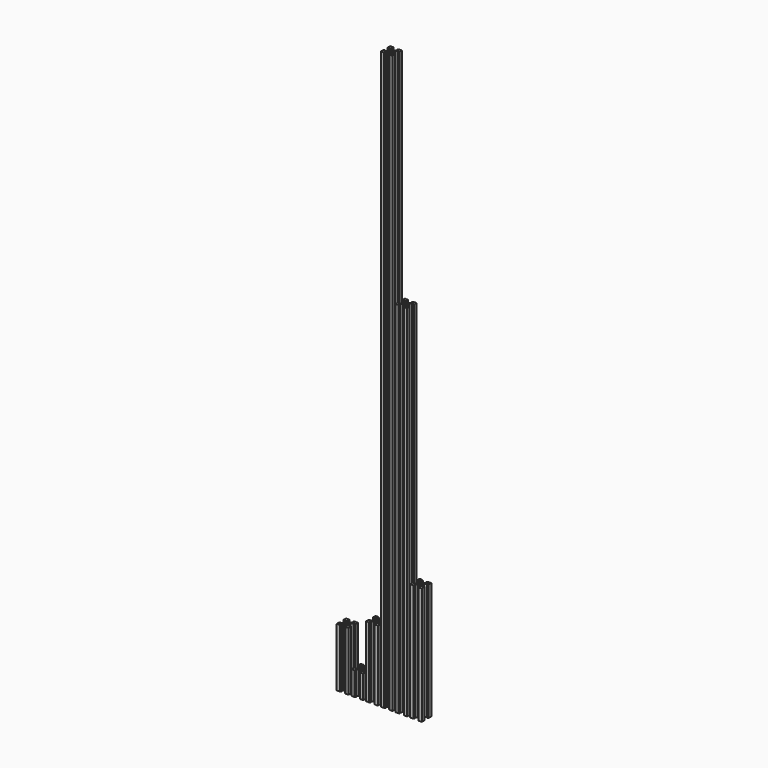
from build123d import *

# Parameters (mm, degrees)
F0_R     = 2.1
F1_DEPTH = 982.5
F2_DEPTH = 612
F3_DEPTH = 200
F4_DEPTH = 120
F5_DEPTH = 40
F6_DEPTH = 100


with BuildPart() as f1:
    # F0 (on Top) → F1 (new body)
    with BuildSketch(Plane.XY):
        Polygon((-10, 10), (-10, 4.64), (-8.2, 2.84), (-8.2, 6.495474), (-8.2, 8.2), (-6.495474, 8.2), (-2.84, 8.2), (-4.64, 10), align=None)
        Polygon((-8.2, 8.2), (-8.2, 6.495474), (-4, 2.295474), (-4, 4), (-2.295474, 4), (-6.495474, 8.2), align=None)
        Polygon((-2.295474, -4), (2.295474, -4), (4, -4), (4, -2.295474), (4, 2.295474), (4, 4), (2.295474, 4), (-2.295474, 4), (-4, 4), (-4, 2.295474), (-4, -2.295474), (-4, -4), align=None)
        Circle(F0_R, mode=Mode.SUBTRACT)
        Polygon((4, 2.295474), (8.2, 6.495474), (8.2, 8.2), (6.495474, 8.2), (2.295474, 4), (4, 4), align=None)
        Polygon((8.2, 2.84), (10, 4.64), (10, 10), (4.64, 10), (2.84, 8.2), (6.495474, 8.2), (8.2, 8.2), (8.2, 6.495474), align=None)
        Polygon((4.64, -10), (10, -10), (10, -4.64), (8.2, -2.84), (8.2, -6.495474), (8.2, -8.2), (6.495474, -8.2), (2.84, -8.2), align=None)
        Polygon((2.295474, -4), (6.495474, -8.2), (8.2, -8.2), (8.2, -6.495474), (4, -2.295474), (4, -4), align=None)
        Polygon((-8.2, -8.2), (-6.495474, -8.2), (-2.295474, -4), (-4, -4), (-4, -2.295474), (-8.2, -6.495474), align=None)
        Polygon((-10, -10), (-4.64, -10), (-2.84, -8.2), (-6.495474, -8.2), (-8.2, -8.2), (-8.2, -6.495474), (-8.2, -2.84), (-10, -4.64), align=None)
    extrude(amount=F1_DEPTH)


with BuildPart() as f2:
    # F0 (on Top) → F2 (new body)
    with BuildSketch(Plane.XY):
        Polygon((18.504526, 8.2), (22.16, 8.2), (20.36, 10), (15, 10), (15, 4.64), (16.8, 2.84), (16.8, 6.495474), (16.8, 8.2), align=None)
        Polygon((33.2, 8.2), (33.2, 6.495474), (33.2, 2.84), (35, 4.64), (35, 10), (29.64, 10), (27.84, 8.2), (31.495474, 8.2), align=None)
        Polygon((29, 2.295474), (33.2, 6.495474), (33.2, 8.2), (31.495474, 8.2), (27.295474, 4), (29, 4), align=None)
        Polygon((29, -2.295474), (29, 2.295474), (29, 4), (27.295474, 4), (22.704526, 4), (21, 4), (21, 2.295474), (21, -2.295474), (21, -4), (22.704526, -4), (27.295474, -4), (29, -4), align=None)
        with Locations((25, 0)):
            Circle(F0_R, mode=Mode.SUBTRACT)
        Polygon((21, 4), (22.704526, 4), (18.504526, 8.2), (16.8, 8.2), (16.8, 6.495474), (21, 2.295474), align=None)
        Polygon((18.504526, -8.2), (22.704526, -4), (21, -4), (21, -2.295474), (16.8, -6.495474), (16.8, -8.2), align=None)
        Polygon((22.16, -8.2), (18.504526, -8.2), (16.8, -8.2), (16.8, -6.495474), (16.8, -2.84), (15, -4.64), (15, -10), (20.36, -10), align=None)
        Polygon((33.2, -6.495474), (29, -2.295474), (29, -4), (27.295474, -4), (31.495474, -8.2), (33.2, -8.2), align=None)
        Polygon((35, -4.64), (33.2, -2.84), (33.2, -6.495474), (33.2, -8.2), (31.495474, -8.2), (27.84, -8.2), (29.64, -10), (35, -10), align=None)
    extrude(amount=F2_DEPTH)


with BuildPart() as f3:
    # F0 (on Top) → F3 (new body)
    with BuildSketch(Plane.XY):
        Polygon((43.504526, 8.2), (47.16, 8.2), (45.36, 10), (40, 10), (40, 4.64), (41.8, 2.84), (41.8, 6.495474), (41.8, 8.2), align=None)
        Polygon((46, 4), (47.704526, 4), (43.504526, 8.2), (41.8, 8.2), (41.8, 6.495474), (46, 2.295474), align=None)
        Polygon((54, -2.295474), (54, 2.295474), (54, 4), (52.295474, 4), (47.704526, 4), (46, 4), (46, 2.295474), (46, -2.295474), (46, -4), (47.704526, -4), (52.295474, -4), (54, -4), align=None)
        with Locations((50, 0)):
            Circle(F0_R, mode=Mode.SUBTRACT)
        Polygon((54, 2.295474), (58.2, 6.495474), (58.2, 8.2), (56.495474, 8.2), (52.295474, 4), (54, 4), align=None)
        Polygon((58.2, 8.2), (58.2, 6.495474), (58.2, 2.84), (60, 4.64), (60, 10), (54.64, 10), (52.84, 8.2), (56.495474, 8.2), align=None)
        Polygon((60, -4.64), (58.2, -2.84), (58.2, -6.495474), (58.2, -8.2), (56.495474, -8.2), (52.84, -8.2), (54.64, -10), (60, -10), align=None)
        Polygon((58.2, -6.495474), (54, -2.295474), (54, -4), (52.295474, -4), (56.495474, -8.2), (58.2, -8.2), align=None)
        Polygon((43.504526, -8.2), (47.704526, -4), (46, -4), (46, -2.295474), (41.8, -6.495474), (41.8, -8.2), align=None)
        Polygon((47.16, -8.2), (43.504526, -8.2), (41.8, -8.2), (41.8, -6.495474), (41.8, -2.84), (40, -4.64), (40, -10), (45.36, -10), align=None)
    extrude(amount=F3_DEPTH)


with BuildPart() as f4:
    # F0 (on Top) → F4 (new body)
    with BuildSketch(Plane.XY):
        Polygon((-27.84, 8.2), (-29.64, 10), (-35, 10), (-35, 4.64), (-33.2, 2.84), (-33.2, 6.495474), (-33.2, 8.2), (-31.495474, 8.2), align=None)
        Polygon((-29, 4), (-27.295474, 4), (-31.495474, 8.2), (-33.2, 8.2), (-33.2, 6.495474), (-29, 2.295474), align=None)
        Polygon((-21, -4), (-21, -2.295474), (-21, 2.295474), (-21, 4), (-22.704526, 4), (-27.295474, 4), (-29, 4), (-29, 2.295474), (-29, -2.295474), (-29, -4), (-27.295474, -4), (-22.704526, -4), align=None)
        with Locations((-25, 0)):
            Circle(F0_R, mode=Mode.SUBTRACT)
        Polygon((-21, 2.295474), (-16.8, 6.495474), (-16.8, 8.2), (-18.504526, 8.2), (-22.704526, 4), (-21, 4), align=None)
        Polygon((-16.8, 6.495474), (-16.8, 2.84), (-15, 4.64), (-15, 10), (-20.36, 10), (-22.16, 8.2), (-18.504526, 8.2), (-16.8, 8.2), align=None)
        Polygon((-15, -4.64), (-16.8, -2.84), (-16.8, -6.495474), (-16.8, -8.2), (-18.504526, -8.2), (-22.16, -8.2), (-20.36, -10), (-15, -10), align=None)
        Polygon((-16.8, -8.2), (-16.8, -6.495474), (-21, -2.295474), (-21, -4), (-22.704526, -4), (-18.504526, -8.2), align=None)
        Polygon((-35, -10), (-29.64, -10), (-27.84, -8.2), (-31.495474, -8.2), (-33.2, -8.2), (-33.2, -6.495474), (-33.2, -2.84), (-35, -4.64), align=None)
        Polygon((-31.495474, -8.2), (-27.295474, -4), (-29, -4), (-29, -2.295474), (-33.2, -6.495474), (-33.2, -8.2), align=None)
    extrude(amount=F4_DEPTH)


with BuildPart() as f5:
    # F0 (on Top) → F5 (new body)
    with BuildSketch(Plane.XY):
        Polygon((-56.495474, -8.2), (-52.295474, -4), (-54, -4), (-54, -2.295474), (-58.2, -6.495474), (-58.2, -8.2), align=None)
        Polygon((-46, -4), (-46, -2.295474), (-46, 2.295474), (-46, 4), (-47.704526, 4), (-52.295474, 4), (-54, 4), (-54, 2.295474), (-54, -2.295474), (-54, -4), (-52.295474, -4), (-47.704526, -4), align=None)
        with Locations((-50, 0)):
            Circle(F0_R, mode=Mode.SUBTRACT)
        Polygon((-41.8, 6.495474), (-41.8, 2.84), (-40, 4.64), (-40, 10), (-45.36, 10), (-47.16, 8.2), (-43.504526, 8.2), (-41.8, 8.2), align=None)
        Polygon((-46, 2.295474), (-41.8, 6.495474), (-41.8, 8.2), (-43.504526, 8.2), (-47.704526, 4), (-46, 4), align=None)
        Polygon((-54, 4), (-52.295474, 4), (-56.495474, 8.2), (-58.2, 8.2), (-58.2, 6.495474), (-54, 2.295474), align=None)
        Polygon((-52.84, 8.2), (-54.64, 10), (-60, 10), (-60, 4.64), (-58.2, 2.84), (-58.2, 6.495474), (-58.2, 8.2), (-56.495474, 8.2), align=None)
        Polygon((-41.8, -8.2), (-41.8, -6.495474), (-46, -2.295474), (-46, -4), (-47.704526, -4), (-43.504526, -8.2), align=None)
        Polygon((-40, -4.64), (-41.8, -2.84), (-41.8, -6.495474), (-41.8, -8.2), (-43.504526, -8.2), (-47.16, -8.2), (-45.36, -10), (-40, -10), align=None)
        Polygon((-60, -10), (-54.64, -10), (-52.84, -8.2), (-56.495474, -8.2), (-58.2, -8.2), (-58.2, -6.495474), (-58.2, -2.84), (-60, -4.64), align=None)
    extrude(amount=F5_DEPTH)


with BuildPart() as f6:
    # F0 (on Top) → F6 (new body)
    with BuildSketch(Plane.XY):
        Polygon((-77.84, 8.2), (-79.64, 10), (-85, 10), (-85, 4.64), (-83.2, 2.84), (-83.2, 6.495474), (-83.2, 8.2), (-81.495474, 8.2), align=None)
        Polygon((-79, 4), (-77.295474, 4), (-81.495474, 8.2), (-83.2, 8.2), (-83.2, 6.495474), (-79, 2.295474), align=None)
        Polygon((-71, -2.295474), (-71, 2.295474), (-71, 4), (-72.704526, 4), (-77.295474, 4), (-79, 4), (-79, 2.295474), (-79, -2.295474), (-79, -4), (-77.295474, -4), (-72.704526, -4), (-71, -4), align=None)
        with Locations((-75, 0)):
            Circle(F0_R, mode=Mode.SUBTRACT)
        Polygon((-66.8, 6.495474), (-66.8, 2.84), (-65, 4.64), (-65, 10), (-70.36, 10), (-72.16, 8.2), (-68.504526, 8.2), (-66.8, 8.2), align=None)
        Polygon((-71, 2.295474), (-66.8, 6.495474), (-66.8, 8.2), (-68.504526, 8.2), (-72.704526, 4), (-71, 4), align=None)
        Polygon((-65, -4.64), (-66.8, -2.84), (-66.8, -6.495474), (-66.8, -8.2), (-68.504526, -8.2), (-72.16, -8.2), (-70.36, -10), (-65, -10), align=None)
        Polygon((-66.8, -8.2), (-66.8, -6.495474), (-71, -2.295474), (-71, -4), (-72.704526, -4), (-68.504526, -8.2), align=None)
        Polygon((-81.495474, -8.2), (-77.295474, -4), (-79, -4), (-79, -2.295474), (-83.2, -6.495474), (-83.2, -8.2), align=None)
        Polygon((-85, -10), (-79.64, -10), (-77.84, -8.2), (-81.495474, -8.2), (-83.2, -8.2), (-83.2, -6.495474), (-83.2, -2.84), (-85, -4.64), align=None)
    extrude(amount=F6_DEPTH)


solid = Compound([f1.part, f2.part, f3.part, f4.part, f5.part, f6.part])
